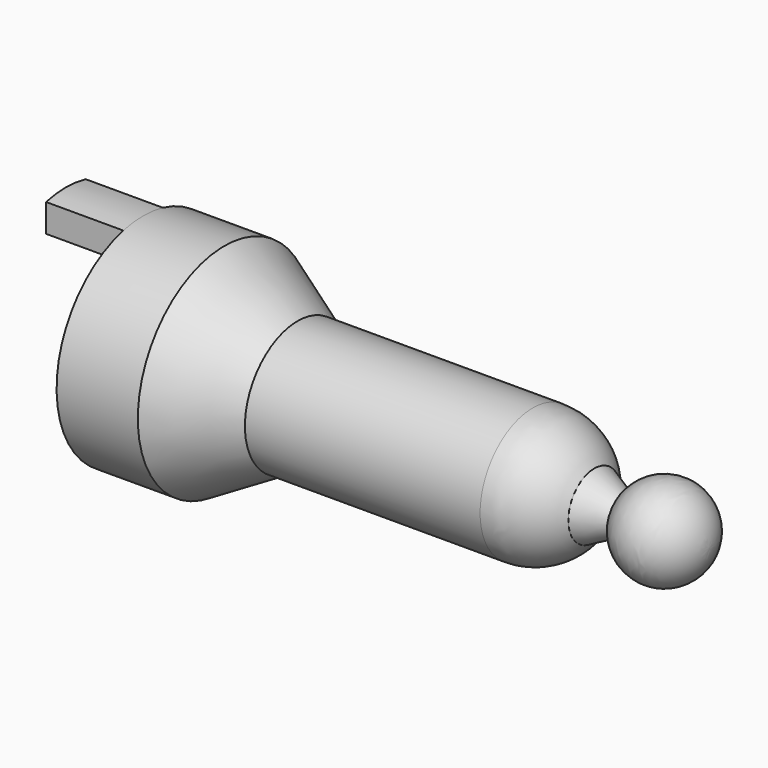
from build123d import *

# Parameters (mm, degrees)
F3_DEPTH = 25


with BuildPart() as f1:
    # F0 (on Top) → F1 (revolve)
    with BuildSketch(Plane.XY):
        with BuildLine():
            Line((-52.590576, 35), (-52.590576, 0))
            Line((-52.590576, 0), (97.212044, 0))
            Line((97.212044, 0), (130.67394, 0))
            ThreePointArc((130.67394, 0), (119.075492, 14.259001), (102.753452, 5.807131))
            Line((102.753452, 5.807131), (93.449569, 10.546759))
            ThreePointArc((93.449569, 10.546759), (84.848633, 18.449851), (73.524636, 21.313776))
            Line((73.524636, 21.313776), (-2.590576, 21.313776))
            Line((-2.590576, 21.313776), (-26.295812, 35))
            Line((-26.295812, 35), (-52.590576, 35))
        make_face()
    revolve(axis=Axis((22.310734, 0, 0), (1, 0, 0)))

    # F2 (on face) → F3 (join)
    with BuildSketch(Plane(origin=(-52.590576, 0, 0), x_dir=(0, -1, 0), z_dir=(-1, 0, 0))):
        with BuildLine():
            ThreePointArc((8, 34.07345), (0, 35), (-8, 34.07345))
            Line((-8, 34.07345), (-8, 25))
            Line((-8, 25), (8, 25))
            Line((8, 25), (8, 34.07345))
        make_face()
    extrude(amount=F3_DEPTH)


solid = f1.part
